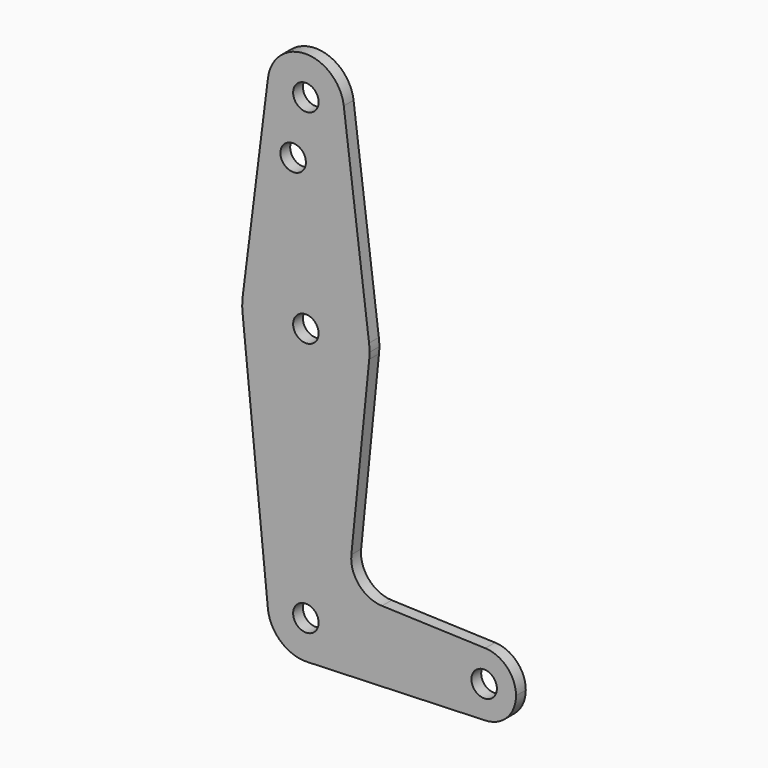
from build123d import *

# Parameters (mm, degrees)
F0_R     = 3.175
F1_DEPTH = 3.048


with BuildPart() as f1:
    # F0 (on Front) → F1 (new body)
    with BuildSketch(Plane.XZ):
        with BuildLine():
            ThreePointArc((-27.779656, -46.925036), (-21.265426, -44.01994), (-18.594834, -37.406113))
            ThreePointArc((-18.594834, -37.406113), (-28.596682, -27.893057), (-37.597089, -38.358613))
            ThreePointArc((-37.597089, -38.358613), (-34.382218, -44.583033), (-27.779656, -46.925036))
        make_face()
        with Locations((-28.119834, -37.406113)):
            Circle(F0_R, mode=Mode.SUBTRACT)
        with BuildLine():
            ThreePointArc((-37.597089, -38.358613), (-28.596682, -27.893057), (-18.594834, -37.406113))
            ThreePointArc((-18.594834, -37.406113), (-21.265426, -44.01994), (-27.779656, -46.925036))
            Line((-27.779656, -46.925036), (16.613648, -45.338549))
            ThreePointArc((16.613648, -45.338549), (8.392666, -37.406113), (16.613648, -29.473677))
            Line((16.613648, -29.473677), (-9.152234, -28.552879))
            ThreePointArc((-9.152234, -28.552879), (-14.858634, -25.834754), (-16.778648, -19.812731))
            Line((-16.778648, -19.812731), (-12.324409, 24.506387))
            ThreePointArc((-12.324409, 24.506387), (-28.119834, 10.218887), (-43.91526, 24.506387))
            Line((-43.91526, 24.506387), (-37.597089, -38.358613))
        make_face()
        with BuildLine():
            ThreePointArc((-43.870322, 28.078262), (-43.993578, 26.293592), (-43.91526, 24.506387))
            ThreePointArc((-43.91526, 24.506387), (-28.119834, 10.218887), (-12.324409, 24.506387))
            ThreePointArc((-12.324409, 24.506387), (-12.26474, 25.29914), (-12.244834, 26.093887))
            ThreePointArc((-12.244834, 26.093887), (-12.275993, 27.088026), (-12.369346, 28.078262))
            ThreePointArc((-12.369346, 28.078262), (-28.119834, 41.968887), (-43.870322, 28.078262))
        make_face()
        with Locations((-28.119834, 26.093887)):
            Circle(F0_R, mode=Mode.SUBTRACT)
        with BuildLine():
            ThreePointArc((16.613648, -29.473677), (8.392666, -37.406113), (16.613648, -45.338549))
            ThreePointArc((16.613648, -45.338549), (22.042173, -42.917636), (24.267666, -37.406113))
            ThreePointArc((24.267666, -37.406113), (22.042173, -31.89459), (16.613648, -29.473677))
        make_face()
        with Locations((16.330166, -37.406113)):
            Circle(F0_R, mode=Mode.SUBTRACT)
        with BuildLine():
            Line((-37.570127, 78.084512), (-43.870322, 28.078262))
            ThreePointArc((-43.870322, 28.078262), (-28.119834, 41.968887), (-12.369346, 28.078262))
            Line((-12.369346, 28.078262), (-18.669541, 78.084512))
            ThreePointArc((-18.669541, 78.084512), (-18.613529, 77.49037), (-18.594834, 76.893887))
            ThreePointArc((-18.594834, 76.893887), (-28.716317, 67.387582), (-37.570127, 78.084512))
        make_face()
        with Locations((-31.294834, 62.619087)):
            Circle(F0_R, mode=Mode.SUBTRACT)
        with BuildLine():
            ThreePointArc((-18.669541, 78.084512), (-28.119834, 86.418887), (-37.570127, 78.084512))
            ThreePointArc((-37.570127, 78.084512), (-28.716317, 67.387582), (-18.594834, 76.893887))
            ThreePointArc((-18.594834, 76.893887), (-18.613529, 77.49037), (-18.669541, 78.084512))
        make_face()
        with Locations((-28.119834, 76.893887)):
            Circle(F0_R, mode=Mode.SUBTRACT)
    extrude(amount=F1_DEPTH)


solid = f1.part
